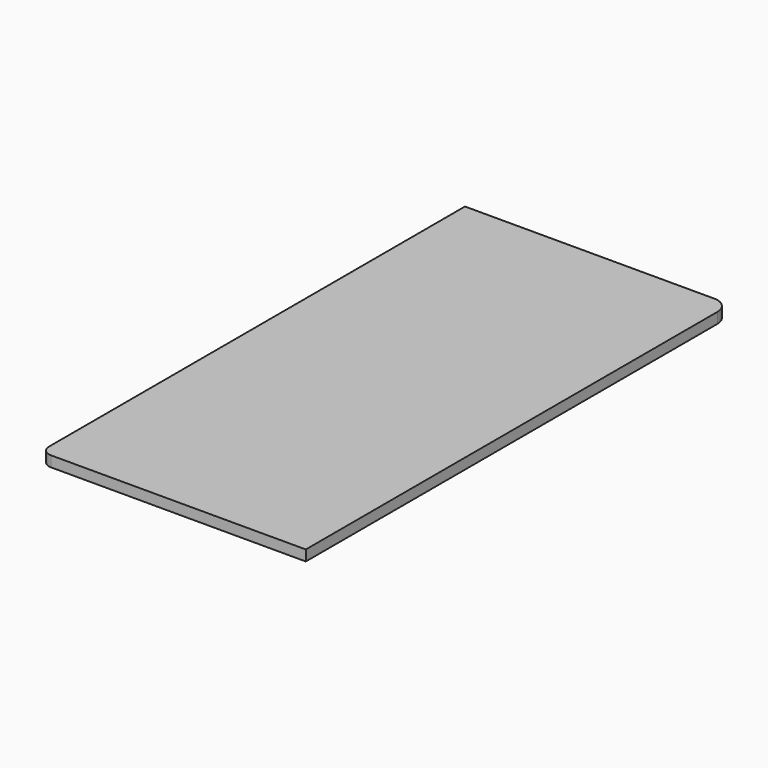
from build123d import *

# Parameters (mm, degrees)
BOX_W       = 50
BOX_H       = 100
BOX_DEPTH   = 2
FILLET_R    = 3
FILLET001_R = 2


with BuildPart() as part:
    # Box → Box (new body)
    with BuildSketch(Plane.XY):
        with Locations((25, 50)):
            Rectangle(BOX_W, BOX_H)
    extrude(amount=BOX_DEPTH)

    # Fillet
    fillet_edges = [part.edges().sort_by_distance(p)[0] for p in [
        (50, 100, 1),
    ]]
    fillet(fillet_edges, radius=FILLET_R)

    # Fillet001
    fillet001_edges = [part.edges().sort_by_distance(p)[0] for p in [
        (0, 0, 1),
    ]]
    fillet(fillet001_edges, radius=FILLET001_R)


solid = part.part
